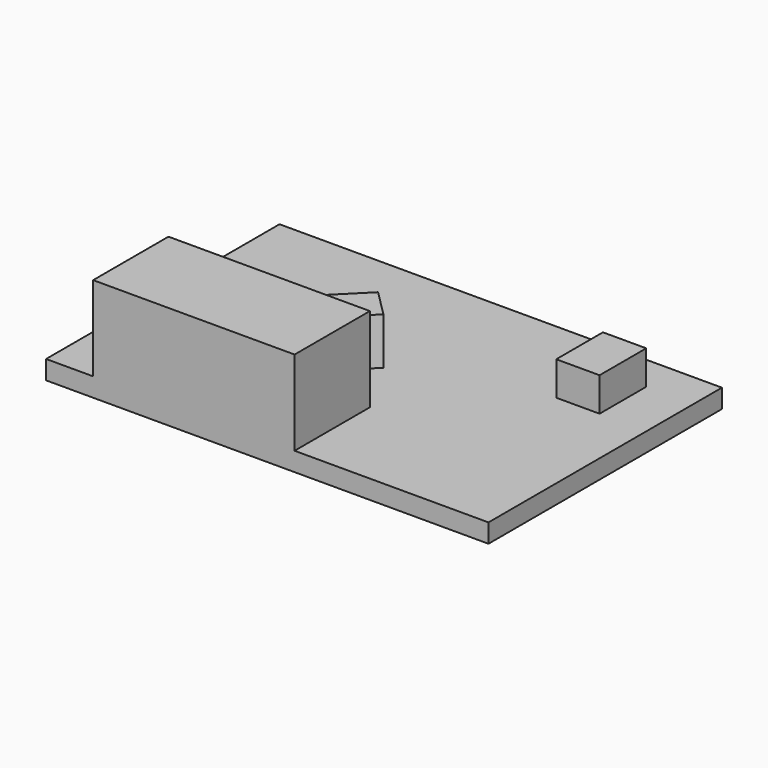
from build123d import *

# Parameters (mm, degrees)
F0_W     = 235
F0_H     = 155
F1_DEPTH = 10
F2_W     = 107
F2_H     = 50
F3_DEPTH = 45
F4_W     = 23
F4_H     = 31
F5_DEPTH = 18
F7_DEPTH = 25


with BuildPart() as f1:
    # F0 (on Top) → F1 (new body)
    with BuildSketch(Plane.XY):
        with Locations((117.5, 77.5)):
            Rectangle(F0_W, F0_H)
    extrude(amount=F1_DEPTH)

    # F2 (on face) → F3 (join)
    with BuildSketch(Plane.XY.offset(10)):
        with Locations((78.5, 25)):
            Rectangle(F2_W, F2_H)
    extrude(amount=F3_DEPTH)

    # F4 (on face) → F5 (join)
    with BuildSketch(Plane.XY.offset(10)):
        with Locations((198.5, 120.5)):
            Rectangle(F4_W, F4_H)
    extrude(amount=F5_DEPTH)

    # F6 (on face) → F7 (join)
    with BuildSketch(Plane.XY.offset(10)):
        Polygon((100.071068, 95.355339), (78.857864, 74.142136), (93, 60), (114.213203, 81.213203), align=None)
    extrude(amount=F7_DEPTH)


solid = f1.part
